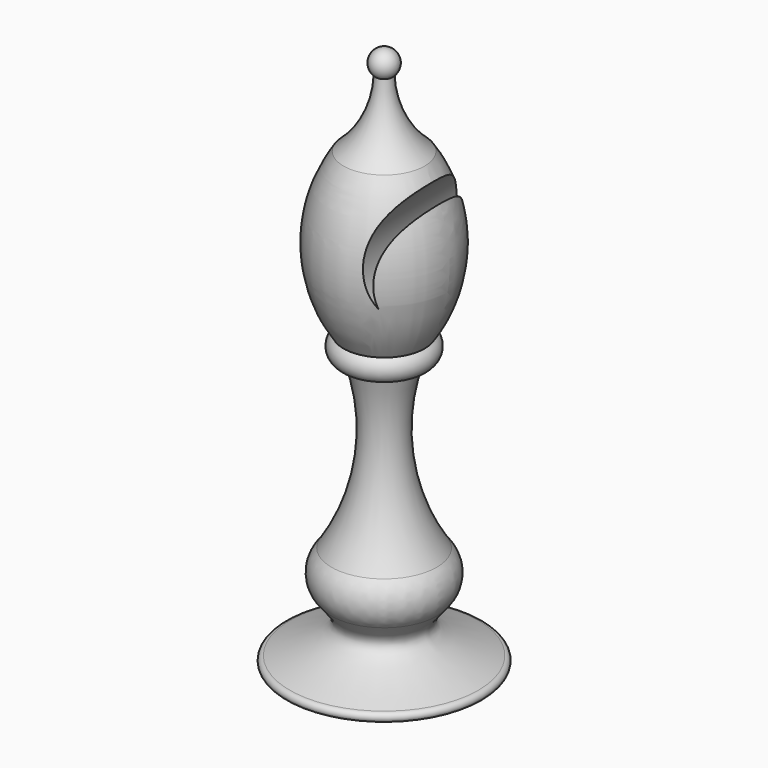
from build123d import *

# Parameters (mm, degrees)
F3_DEPTH = 12.7


with BuildPart() as f1:
    # F0 (on Front) → F1 (revolve)
    with BuildSketch(Plane.XZ):
        with BuildLine():
            Line((0, 45.7402965126), (0, 38.1))
            Line((0, 38.1), (0, 0))
            Line((0, 0), (7.9375, 0))
            ThreePointArc((7.9375, 0), (8.3142796152, 0.3767796152), (7.9375, 0.7535592304))
            add(Edge.make_bspline(
                [(4.4289799407, 5.0970371813), (3.8652116037, 4.447307109), (2.4266767475, 2.7894286959), (5.8536021882, 1.5234158797), (7.9375, 0.7535592304)],
                knots=[0, 0, 0, 0, 0.3919045372, 1, 1, 1, 1], degree=3))
            ThreePointArc((4.4289799407, 5.0970371813), (5.1574363772, 6.9059464149), (4.4289799407, 8.7148556486))
            ThreePointArc((4.4289799407, 8.7148556486), (1.9305085977, 15.5362857998), (2.6656309819, 22.7635856718))
            Line((2.6656309819, 22.7635856718), (3.4089614412, 22.7635856718))
            ThreePointArc((3.4089614412, 22.7635856718), (3.8588998931, 23.6722570362), (3.4089614412, 24.5809284006))
            ThreePointArc((3.4089614412, 24.5809284006), (5.49894587, 31.3404642003), (3.4089614412, 38.1))
            ThreePointArc((3.4089614412, 38.1), (1.4415648538, 40.6499076471), (0.6869643694, 43.7809228897))
            ThreePointArc((0.6869643694, 43.7809228897), (1.0381552195, 45.0041648954), (0, 45.7402965126))
        make_face()
    revolve(axis=Axis((0, 0, 19.05), (0, 0, -1)))

    # F2 (on Front) → F3 (cut, symmetric)
    with BuildSketch(Plane.XZ):
        with BuildLine():
            ThreePointArc((3.01911938, 29.1189756244), (3.0712848337, 32.6090947514), (4.6732505394, 35.7102814005))
            ThreePointArc((4.6732505394, 35.7102814005), (4.3728411599, 36.4104125502), (4.0285230392, 37.0900260095))
            ThreePointArc((4.0285230392, 37.0900260095), (2.2692168517, 33.2633760177), (3.01911938, 29.1189756244))
        make_face()
    extrude(amount=F3_DEPTH, both=True, mode=Mode.SUBTRACT)


solid = f1.part
